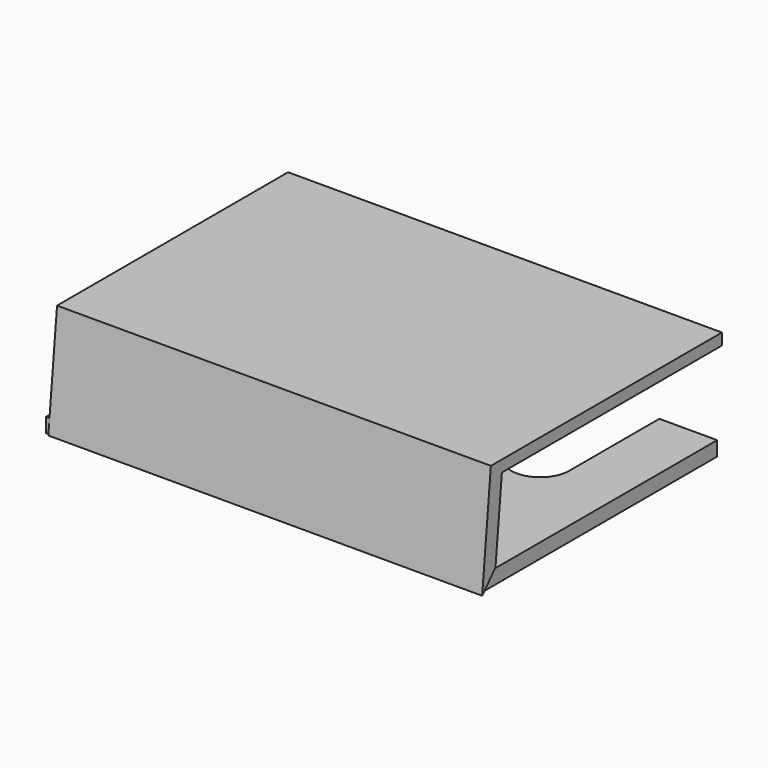
from build123d import *

# Parameters (mm, degrees)
F1_DEPTH = 5
F3_DEPTH = 75


with BuildPart() as f1:
    # F0 (on Top) → F1 (new body)
    with BuildSketch(Plane.XY):
        with BuildLine():
            Line((-76.293304, 38.972288), (-76.293304, -63.568132))
            Line((-76.293304, -63.568132), (73.706696, -63.568132))
            Line((73.706696, -63.568132), (73.706696, 38.972288))
            Line((73.706696, 38.972288), (53.706696, 38.972288))
            Line((53.706696, 38.972288), (53.706696, 0))
            ThreePointArc((53.706696, 0), (43.706696, -10), (33.706696, 0))
            Line((33.706696, 0), (33.706696, 38.972288))
            Line((33.706696, 38.972288), (8.706696, 38.972288))
            Line((8.706696, 38.972288), (8.706696, 0))
            ThreePointArc((8.706696, 0), (-1.293304, -10), (-11.293304, 0))
            Line((-11.293304, 0), (-11.293304, 38.972288))
            Line((-11.293304, 38.972288), (-36.293304, 38.972288))
            Line((-36.293304, 38.972288), (-36.293304, 0))
            ThreePointArc((-36.293304, 0), (-46.293304, -10), (-56.293304, 0))
            Line((-56.293304, 0), (-56.293304, 38.972288))
            Line((-56.293304, 38.972288), (-76.293304, 38.972288))
        make_face()
    extrude(amount=F1_DEPTH)

    # F2 (on Right) → F3 (join, symmetric)
    with BuildSketch(Plane.YZ):
        Polygon((-60.449123, 38.016442), (-64.220987, 0), (-58.463931, 6.253358), (-55.68466, 34.046058), (39.40608, 34.046058), (39.40608, 38.016442), align=None)
    extrude(amount=F3_DEPTH, both=True)


solid = f1.part
